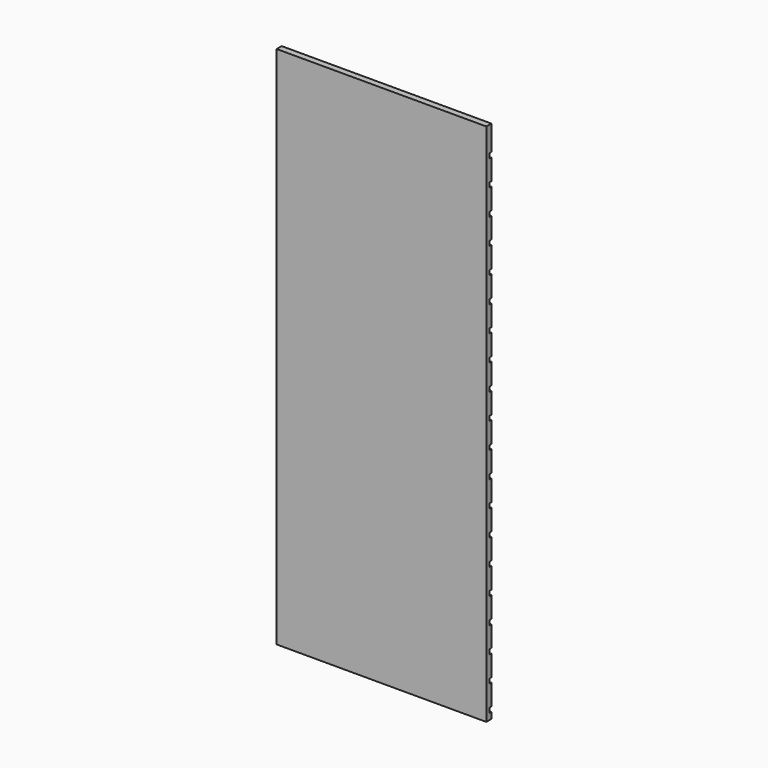
from build123d import *

# Parameters (mm, degrees)
F0_W     = 400
F0_H     = 1000
F2_DEPTH = 12
F1_W     = 400
F1_H     = 9
F3_DEPTH = 5


with BuildPart() as f2:
    # F0 (on Front) → F2 (new body)
    with BuildSketch(Plane.XZ):
        Rectangle(F0_W, F0_H)
    extrude(amount=F2_DEPTH)

    # F1 (on face) → F3 (cut)
    with BuildSketch(Plane.XZ):
        with Locations((0, -483.5)):
            Rectangle(F1_W, F1_H)
        with Locations((0, -434.5)):
            Rectangle(F1_W, F1_H)
        with Locations((0, -385.5)):
            Rectangle(F1_W, F1_H)
        with Locations((0, -336.5)):
            Rectangle(F1_W, F1_H)
        with Locations((0, -287.5)):
            Rectangle(F1_W, F1_H)
        with Locations((0, -238.5)):
            Rectangle(F1_W, F1_H)
        with Locations((0, -189.5)):
            Rectangle(F1_W, F1_H)
        with Locations((0, -140.5)):
            Rectangle(F1_W, F1_H)
        with Locations((0, -91.5)):
            Rectangle(F1_W, F1_H)
        with Locations((0, -42.5)):
            Rectangle(F1_W, F1_H)
        with Locations((0, 6.5)):
            Rectangle(F1_W, F1_H)
        with Locations((0, 55.5)):
            Rectangle(F1_W, F1_H)
        with Locations((0, 104.5)):
            Rectangle(F1_W, F1_H)
        with Locations((0, 153.5)):
            Rectangle(F1_W, F1_H)
        with Locations((0, 202.5)):
            Rectangle(F1_W, F1_H)
        with Locations((0, 251.5)):
            Rectangle(F1_W, F1_H)
        with Locations((0, 300.5)):
            Rectangle(F1_W, F1_H)
        with Locations((0, 349.5)):
            Rectangle(F1_W, F1_H)
        with Locations((0, 398.5)):
            Rectangle(F1_W, F1_H)
        with Locations((0, 447.5)):
            Rectangle(F1_W, F1_H)
    extrude(amount=F3_DEPTH, mode=Mode.SUBTRACT)


solid = f2.part
